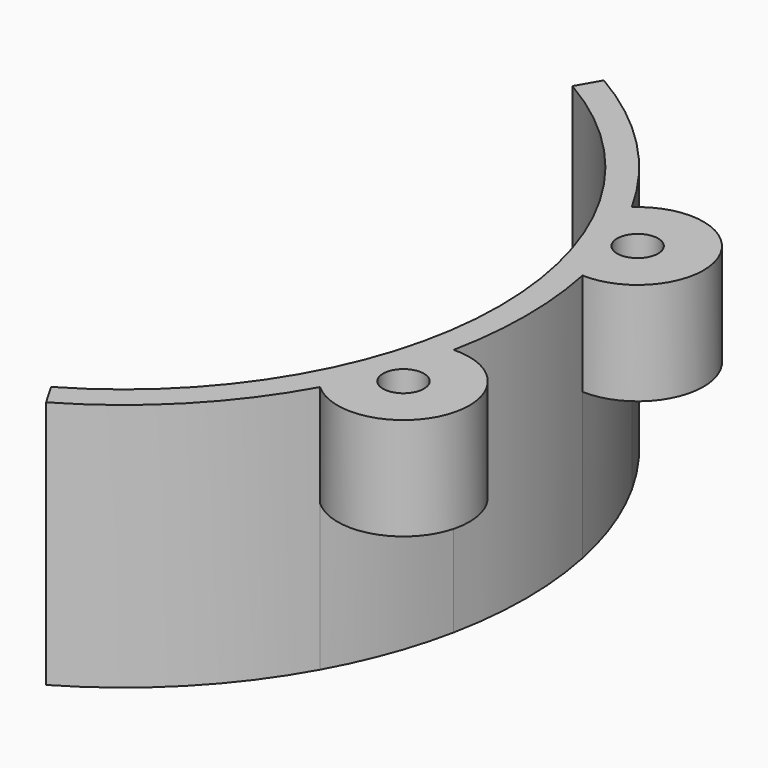
from build123d import *

# Parameters (mm, degrees)
SKETCH_R     = 1.778
PAD_DEPTH    = 21.59
POCKET_DEPTH = 12.7


with BuildPart() as part:
    # Sketch → Pad (new body)
    with BuildSketch(Plane.XY):
        with BuildLine():
            ThreePointArc((16.3195, -28.266203), (32.639, 0), (16.3195, 28.266203))
            Line((16.3195, 28.266203), (17.4625, 30.245937))
            ThreePointArc((30.56252, 16.902308), (24.922154, 24.467159), (17.4625, 30.245937))
            ThreePointArc((34.218529, 6.989129), (39.797707, 14.677509), (30.56252, 16.902308))
            ThreePointArc((34.218529, -6.989129), (34.925, 0), (34.218529, 6.989129))
            ThreePointArc((30.56252, -16.902308), (39.797707, -14.677509), (34.218529, -6.989129))
            ThreePointArc((17.4625, -30.245937), (24.922154, -24.467159), (30.56252, -16.902308))
            Line((16.3195, -28.266203), (17.4625, -30.245937))
        make_face()
        with Locations((34.43574, 12.7)):
            Circle(SKETCH_R, mode=Mode.SUBTRACT)
        with Locations((34.43574, -12.7)):
            Circle(SKETCH_R, mode=Mode.SUBTRACT)
    extrude(amount=PAD_DEPTH)

    # Sketch001 → Pocket (cut)
    with BuildSketch(Plane.XY):
        with BuildLine():
            ThreePointArc((34.218529, 6.989129), (39.797707, 14.677509), (30.56252, 16.902308))
            ThreePointArc((34.218529, 6.989129), (32.767573, 12.084775), (30.56252, 16.902308))
        make_face()
        with BuildLine():
            ThreePointArc((30.56252, -16.902308), (39.797707, -14.677509), (34.218529, -6.989129))
            ThreePointArc((30.56252, -16.902308), (32.767573, -12.084775), (34.218529, -6.989129))
        make_face()
    extrude(amount=POCKET_DEPTH, mode=Mode.SUBTRACT)


solid = part.part
